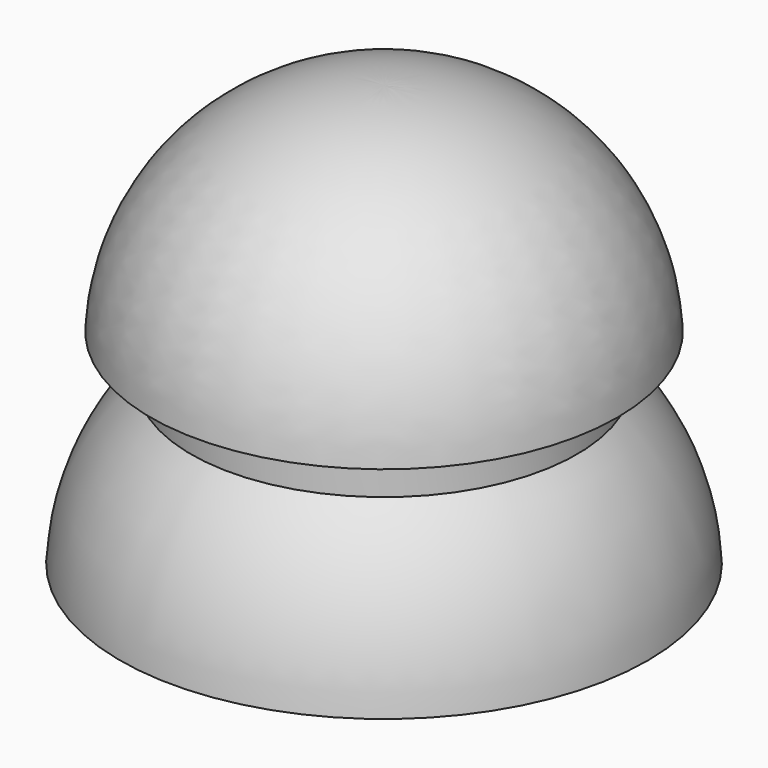
from build123d import *

# Parameters (mm, degrees)
F0_W = 9.8750749603
F0_H = 2.3311162367


with BuildPart() as f1:
    # F0 (on Front) → F1 (revolve)
    with BuildSketch(Plane.XZ):
        with BuildLine():
            Line((0, 0), (0, 11.0805211589))
            ThreePointArc((0, 11.0805211589), (-8.2266601498, 7.9706417982), (-11.9439382106, 0))
            Line((-11.9439382106, 0), (-9.8750749603, 0))
            Line((-9.8750749603, 0), (0, 0))
        make_face()
        with Locations((-4.9375374801, -1.1655581184)):
            Rectangle(F0_W, F0_H)
        with BuildLine():
            Line((0, -11.0791180447), (0, -2.3311162367))
            Line((0, -2.3311162367), (-9.8750749603, -2.3311162367))
            ThreePointArc((-9.8750749603, -2.3311162367), (-12.4466217717, -6.0461624764), (-13.505297713, -10.4386135936))
            Line((-13.505297713, -10.4386135936), (0, -11.0791180447))
        make_face()
    revolve(axis=Axis((0, 0, 4.3747024611), (0, 0, -1)))


solid = f1.part
